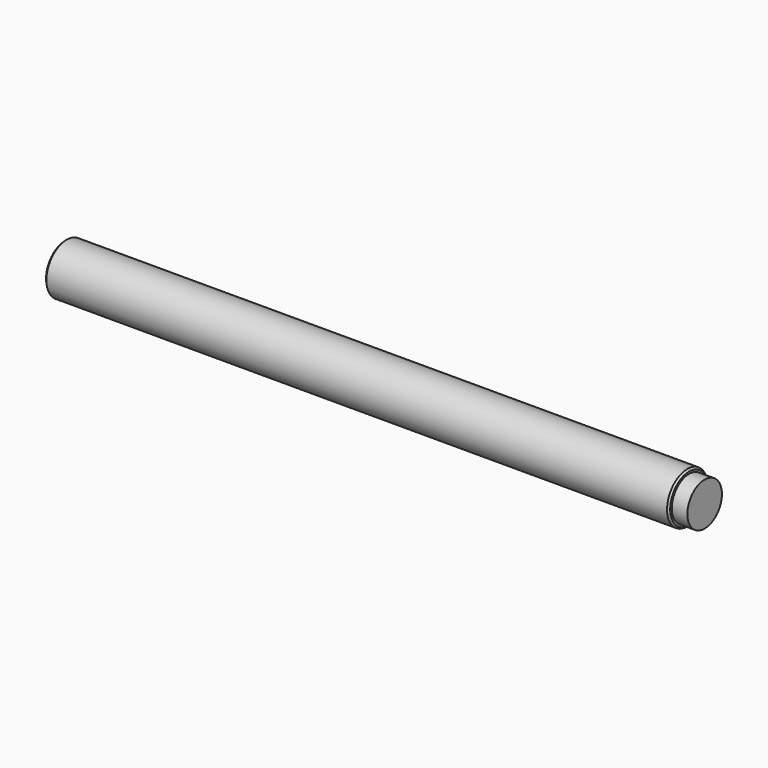
from build123d import *

# Parameters (mm, degrees)
F0_R     = 11.176
F1_DEPTH = 140.97
F2_R     = 11.176
F2_R_2   = 9.525
F3_DEPTH = 6.858
F4_SIZE  = 0.762
F5_R     = 9.525
F6_DEPTH = 10.16


with BuildPart() as f1:
    # F0 (on Right) → F1 (new body, symmetric)
    with BuildSketch(Plane.YZ):
        Circle(F0_R)
    extrude(amount=F1_DEPTH, both=True)

    # F2 (on face) → F3 (cut)
    with BuildSketch(Plane.YZ.offset(140.97)):
        Circle(F2_R)
        Circle(F2_R_2, mode=Mode.SUBTRACT)
    extrude(amount=-F3_DEPTH, mode=Mode.SUBTRACT)

    # F4
    f4_edges = [f1.edges().sort_by_distance(p)[0] for p in [
        (-140.97, -11.176, 0),
        (134.112, -11.176, 0),
    ]]
    chamfer(f4_edges, length=F4_SIZE)

    # F5 (on face) → F6 (cut)
    with BuildSketch(Plane(origin=(-140.97, 0, 0), x_dir=(0, -1, 0), z_dir=(-1, 0, 0))):
        Circle(F5_R)
    extrude(amount=-F6_DEPTH, mode=Mode.SUBTRACT)


solid = f1.part
